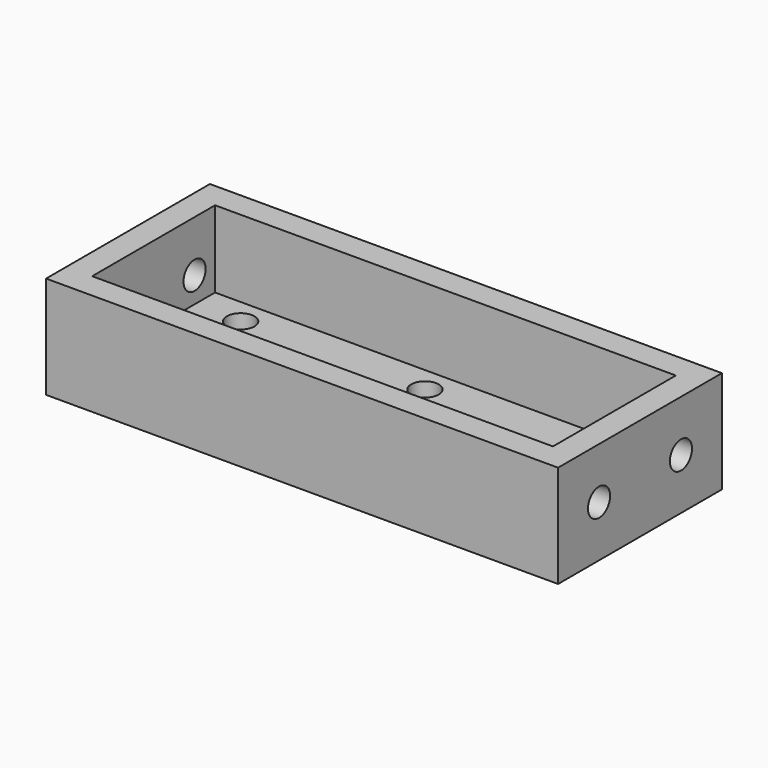
from build123d import *

# Parameters (mm, degrees)
SKETCH090_W     = 100
SKETCH090_H     = 40
PAD073_DEPTH    = 5
SKETCH091_W     = 5
SKETCH091_H     = 40
PAD074_DEPTH    = 15
SKETCH092_R     = 2.7
POCKET021_DEPTH = 100.001
SKETCH093_R     = 2.7
POCKET022_DEPTH = 5
SKETCH096_W     = 90
SKETCH096_H     = 5
PAD077_DEPTH    = 15


with BuildPart() as part:
    # Sketch090 → Pad073 (new body)
    with BuildSketch(Plane.XY):
        with Locations((50, 20)):
            Rectangle(SKETCH090_W, SKETCH090_H)
    extrude(amount=PAD073_DEPTH)

    # Sketch091 (on Face6 of Pad073) → Pad074 (join)
    with BuildSketch(Plane.XY.offset(5)):
        with Locations((2.5, 20)):
            Rectangle(SKETCH091_W, SKETCH091_H)
        with Locations((97.5, 20)):
            Rectangle(SKETCH091_W, SKETCH091_H)
    extrude(amount=PAD074_DEPTH)

    # Sketch092 (on Face5 of Pad074) → Pocket021 (cut, through all)
    with BuildSketch(Plane(origin=(0, 0, 0), x_dir=(0, -1, 0), z_dir=(-1, 0, 0))):
        with Locations((-30, 10)):
            Circle(SKETCH092_R)
        with Locations((-10, 10)):
            Circle(SKETCH092_R)
    extrude(amount=-POCKET021_DEPTH, mode=Mode.SUBTRACT)

    # Sketch093 (on Face8 of Pocket021) → Pocket022 (cut)
    with BuildSketch(Plane.XY.offset(5)):
        with Locations((14, 30)):
            Circle(SKETCH093_R)
        with Locations((14, 10)):
            Circle(SKETCH093_R)
        with Locations((86, 30)):
            Circle(SKETCH093_R)
        with Locations((86, 10)):
            Circle(SKETCH093_R)
        with Locations((50, 30)):
            Circle(SKETCH093_R)
        with Locations((50, 10)):
            Circle(SKETCH093_R)
    extrude(amount=-POCKET022_DEPTH, mode=Mode.SUBTRACT)

    # Sketch096 (on Face8 of Pocket022) → Pad077 (join)
    with BuildSketch(Plane.XY.offset(5)):
        with Locations((50, 37.5)):
            Rectangle(SKETCH096_W, SKETCH096_H)
        with Locations((50, 2.5)):
            Rectangle(SKETCH096_W, SKETCH096_H)
    extrude(amount=PAD077_DEPTH)


solid = part.part
